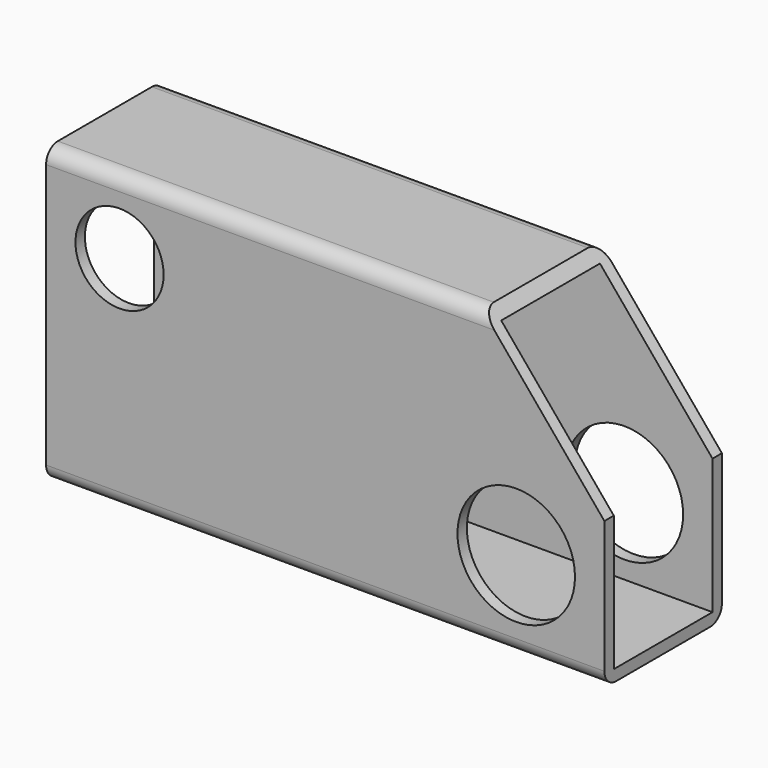
from build123d import *

# Parameters (mm, degrees)
F1_DEPTH = 50
F2_T     = -4
F3_R     = 15
F3_R_2   = 20
F4_DEPTH = 50.001
F5_R     = 5


with BuildPart() as f1:
    # F0 (on Front) → F1 (new body)
    with BuildSketch(Plane.XZ):
        Polygon((-95, -50), (95, -50), (95, 0), (53.363256, 50), (-95, 50), align=None)
    extrude(amount=-F1_DEPTH)

    # F2
    f2_openings = [f1.faces().sort_by_distance(p)[0] for p in [
        (-95, 25, 0),
        (95, 25, -25),
        (74.181628, 25, 25),
    ]]
    offset(amount=F2_T, openings=f2_openings)

    # F3 (on Front) → F4 (cut, through all)
    with BuildSketch(Plane.XZ):
        with Locations((-70, 25)):
            Circle(F3_R)
        with Locations((65, -20)):
            Circle(F3_R_2)
    extrude(amount=-F4_DEPTH, mode=Mode.SUBTRACT)

    # F5
    f5_edges = [f1.edges().sort_by_distance(p)[0] for p in [
        (-20.818372, 0, 50),
        (-20.818372, 50, 50),
        (0, 0, -50),
        (0, 50, -50),
    ]]
    fillet(f5_edges, radius=F5_R)


solid = f1.part
